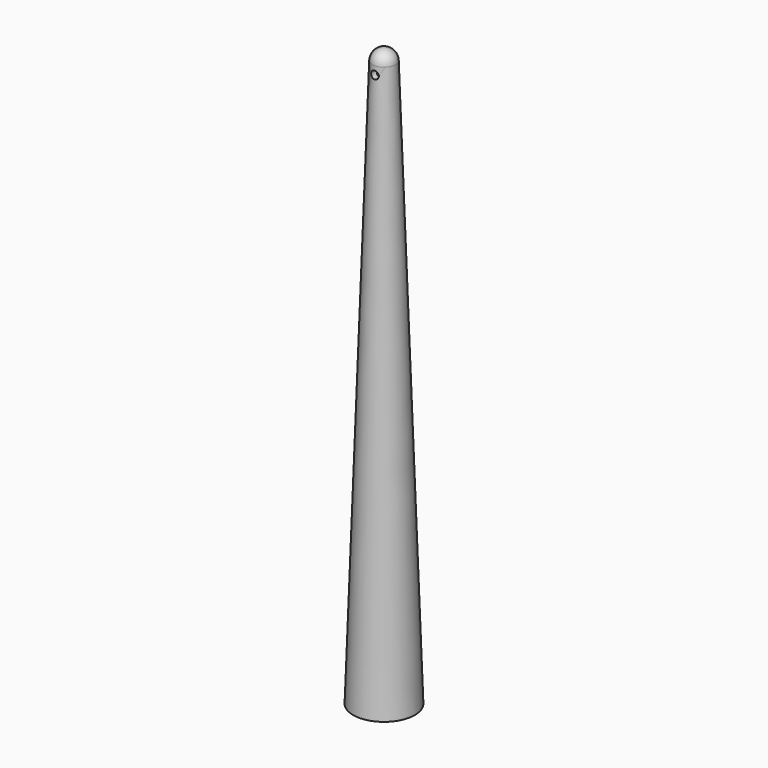
from build123d import *

# Parameters (mm, degrees)
F3_D          = 6
F3_DEPTH      = 20
F3_TIP        = 1.8025818571
F4_R          = 1
F5_DEPTH      = 8.001
F5_DEPTH_BACK = 8.001


with BuildPart() as f1:
    # F0 (on Front) → F1 (revolve)
    with BuildSketch(Plane.XZ):
        with BuildLine():
            Line((-8, 0), (-1.5, 0))
            Line((-1.5, 0), (-1.5, 145))
            Line((-1.5, 145), (0, 145))
            Line((0, 145), (0, 150))
            ThreePointArc((0, 150), (-2.0861816349, 149.1565641032), (-3, 147.100238759))
            Line((-3, 147.100238759), (-8, 0))
        make_face()
    revolve(axis=Axis((0, 0, -15.0155443698), (0, 0, -1)))

    # F3
    with Locations(Plane(origin=(0, 0, 0), x_dir=(1, 0, 0), z_dir=(0, 0, -1))):
        with Locations((0, 0)):
            Hole(F3_D / 2, depth=F3_DEPTH)
            with Locations((0, 0, -(F3_DEPTH + F3_TIP / 2))):  # 118° drill point
                Cone(0, F3_D / 2, F3_TIP, mode=Mode.SUBTRACT)

    # F4 (on Front) → F5 (cut, two sides)
    with BuildSketch(Plane.XZ) as f5_sk:
        with Locations((0, 145)):
            Circle(F4_R)
    extrude(amount=-F5_DEPTH, mode=Mode.SUBTRACT)
    extrude(f5_sk.sketch, amount=F5_DEPTH_BACK, mode=Mode.SUBTRACT)


solid = f1.part
